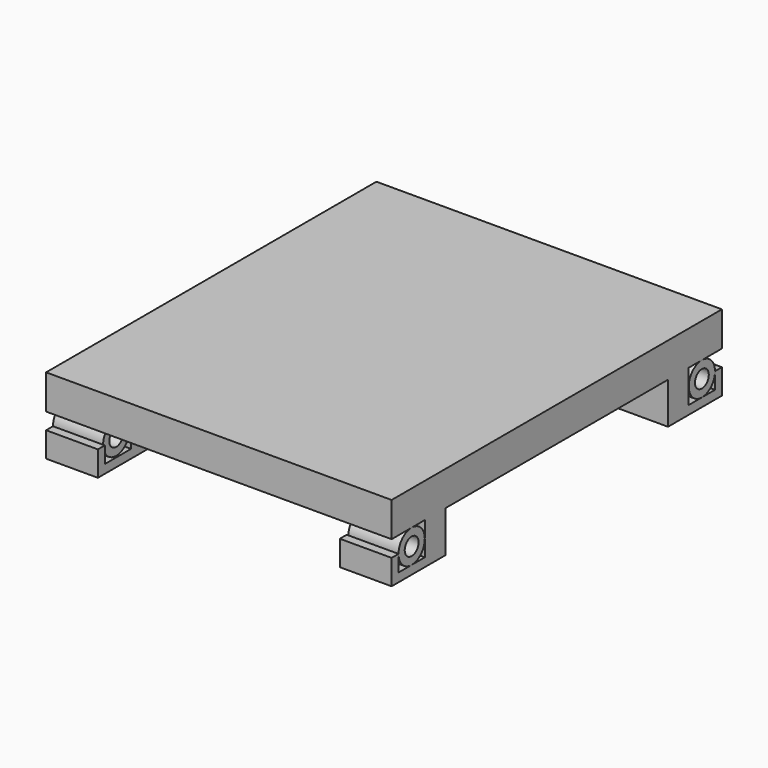
from build123d import *

# Parameters (mm, degrees)
F1_DEPTH = 100
F2_START = 71
F0_R     = 5
F2_DEPTH = 29
F3_START = 70
F3_DEPTH = 30


with BuildPart() as f1:
    # F0 (on Right) → F1 (new body, symmetric)
    with BuildSketch(Plane.YZ):
        Polygon((119.5, 0), (-119.5, 0), (-119.5, -20), (-105, -20), (-95.5, -20), (-80.5, -20), (80.5, -20), (95.5, -20), (105, -20), (119.5, -20), align=None)
    extrude(amount=F1_DEPTH, both=True)

    # F0 (on Right) → F2 (join)
    with BuildSketch(Plane.YZ.offset(F2_START)):
        with BuildLine():
            ThreePointArc((-95.5, -29.5), (-98.2824855787, -22.7824855787), (-105, -20))
            ThreePointArc((-105, -20), (-111.7175144213, -22.7824855787), (-114.5, -29.5))
            ThreePointArc((-114.5, -29.5), (-111.7175144213, -36.2175144213), (-105, -39))
            ThreePointArc((-105, -39), (-98.2824855787, -36.2175144213), (-95.5, -29.5))
        make_face()
        with Locations((-105, -29.5)):
            Circle(F0_R, mode=Mode.SUBTRACT)
        with BuildLine():
            ThreePointArc((114.5, -29.5), (111.7175144213, -22.7824855787), (105, -20))
            ThreePointArc((105, -20), (98.2824855787, -22.7824855787), (95.5, -29.5))
            ThreePointArc((95.5, -29.5), (98.2824855787, -36.2175144213), (105, -39))
            ThreePointArc((105, -39), (111.7175144213, -36.2175144213), (114.5, -29.5))
        make_face()
        with Locations((105, -29.5)):
            Circle(F0_R, mode=Mode.SUBTRACT)
    extrude(amount=F2_DEPTH)



with BuildPart() as f3:
    # F0 (on Right) → F3 (new body)
    with BuildSketch(Plane.YZ.offset(F3_START)):
        Polygon((-80.5, -20), (-95.5, -20), (-95.5, -29.5), (-95.5, -39), (-105, -39), (-114.5, -39), (-114.5, -29.5), (-119.5, -29.5), (-119.5, -44), (-80.5, -44), align=None)
    extrude(amount=F3_DEPTH)


with BuildPart() as f3b:
    # F0 (on Right) → F3, piece 2 (new body)
    with BuildSketch(Plane.YZ.offset(F3_START)):
        Polygon((95.5, -29.5), (95.5, -20), (80.5, -20), (80.5, -44), (119.5, -44), (119.5, -29.5), (114.5, -29.5), (114.5, -39), (105, -39), (95.5, -39), align=None)
    extrude(amount=F3_DEPTH)


with BuildPart() as f1_1:
    add(f1.part)

    add(f3.part)  # F4 merges F3

    add(f3b.part)  # F4 merges F3b
    # F4: F3, F1, F3b across plane
    add(f3.part.mirror(Plane.YZ))
    add(f1.part.mirror(Plane.YZ))
    add(f3b.part.mirror(Plane.YZ))


solid = f1_1.part
